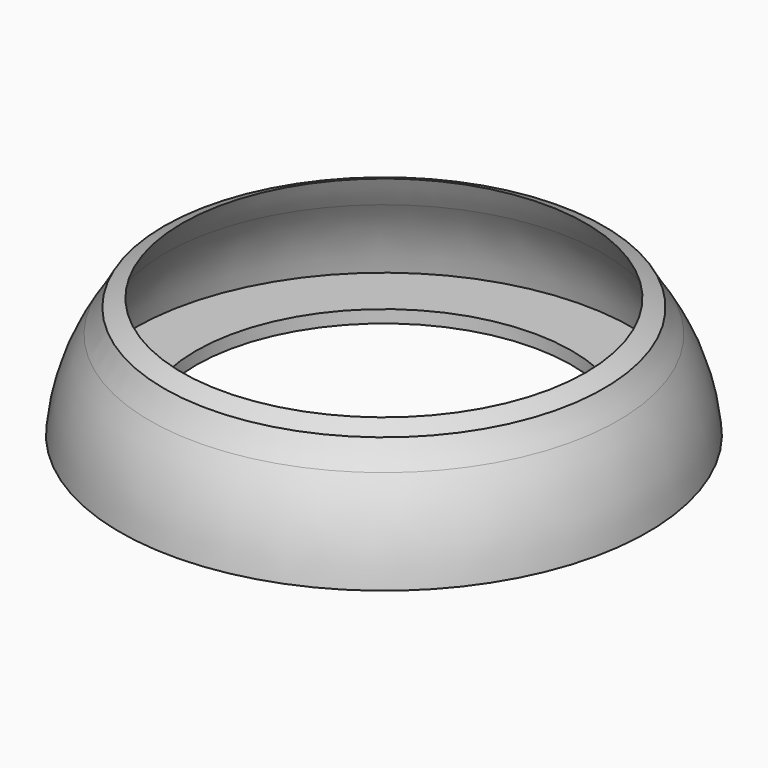
from build123d import *


with BuildPart() as f2:
    # F1 (on Front) → F2 (revolve)
    with BuildSketch(Plane.XZ):
        with BuildLine():
            ThreePointArc((-19.75, 0), (-18.8774355083, 3.1374853065), (-17.3246340174, 6))
            ThreePointArc((-17.3246340174, 6), (-16.5995192538, 7.2348568467), (-15.9709975123, 8.5215670988))
            Line((-15.9709975123, 8.5215670988), (-17.3944850113, 7.8702563207))
            ThreePointArc((-17.3944850113, 7.8702563207), (-17.9313073667, 6.9176508907), (-18.5259099141, 6))
            ThreePointArc((-18.5259099141, 6), (-20.1261112743, 2.6425417796), (-20.8778156574, -1))
            Line((-20.8778156574, -1), (-14.8778156574, -1))
            Line((-14.8778156574, -1), (-14.8778156574, 0))
            Line((-14.8778156574, 0), (-19.75, 0))
        make_face()
    revolve(axis=Axis((0, 0, 0), (0, 0, 1)))


solid = f2.part
